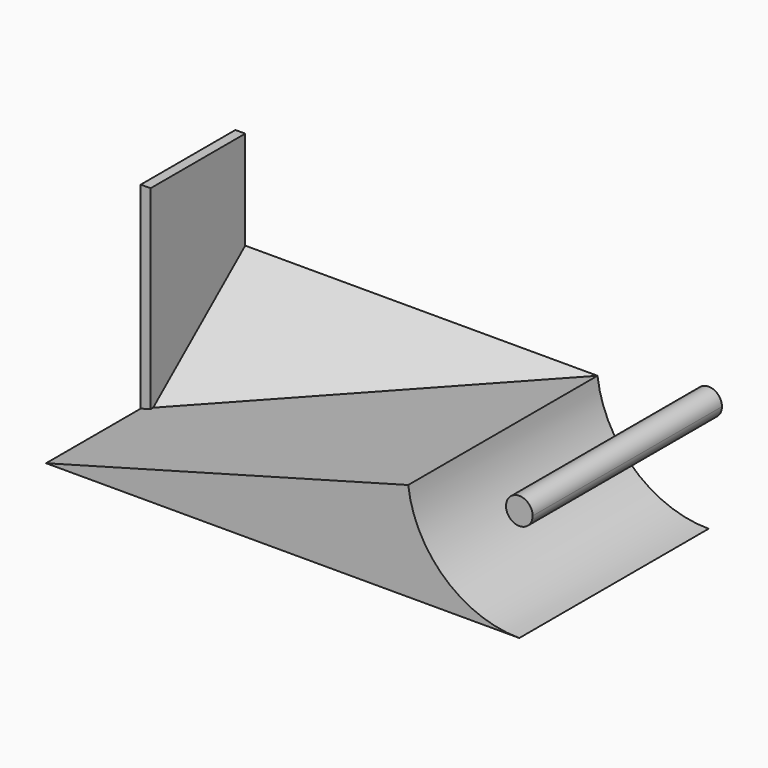
from build123d import *

# Parameters (mm, degrees)
F1_DEPTH = 304.8
F2_W     = 12.7
F2_H     = 152.4
F3_DEPTH = 254
F5_DEPTH = 466.09


with BuildPart() as f1:
    # F0 (on Front) → F1 (new body)
    with BuildSketch(Plane.XZ):
        with BuildLine():
            ThreePointArc((17.145, 0), (-12.123346, 12.123346), (0, -17.145))
            ThreePointArc((0, -17.145), (12.123346, -12.123346), (17.145, 0))
        make_face()
        with BuildLine():
            ThreePointArc((0, -144.145), (-95.672397, -107.817316), (-143.121731, -17.145))
            Line((-143.121731, -17.145), (-143.121731, -144.145))
            Line((-143.121731, -144.145), (0, -144.145))
        make_face()
        Polygon((-143.121731, -144.145), (-143.121731, -17.145), (-609.6, -144.145), align=None)
    extrude(amount=F1_DEPTH)

    # F2 (on face) → F3 (join)
    with BuildSketch(Plane(origin=(0, 0, -144.145), x_dir=(1, 0, 0), z_dir=(0, 0, -1))):
        with Locations((-603.25, 76.2)):
            Rectangle(F2_W, F2_H)
    extrude(amount=-F3_DEPTH)

    # F4 (on face) → F5 (join)
    with BuildSketch(Plane(origin=(-609.6, 0, 0), x_dir=(0, -1, 0), z_dir=(-1, 0, 0))):
        Polygon((152.4, -144.145), (0, -17.145), (0, -144.145), align=None)
    extrude(amount=-F5_DEPTH)


solid = f1.part
